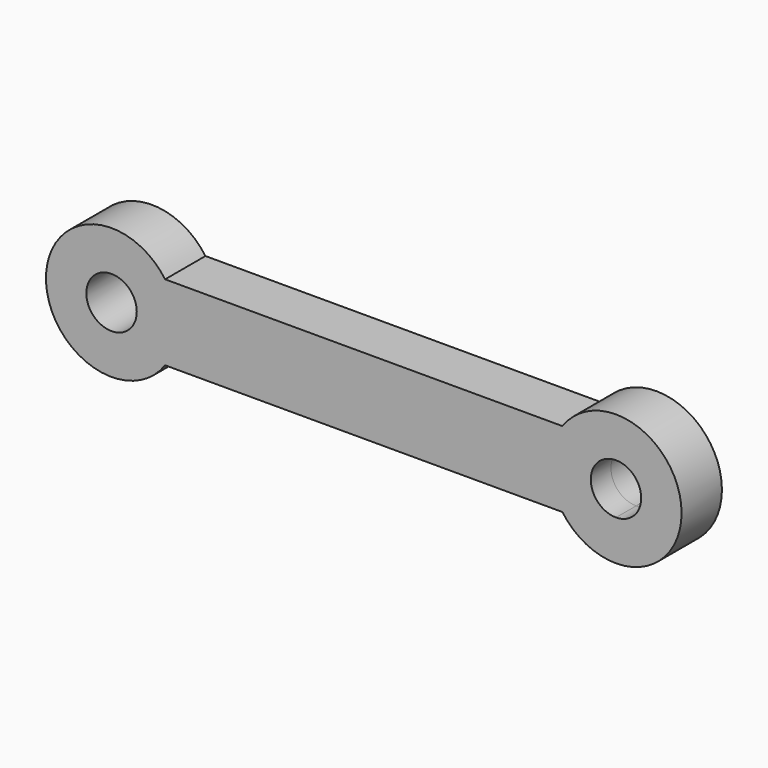
from build123d import *

# Parameters (mm, degrees)
F1_DEPTH = 6.35


with BuildPart() as f1:
    # F0 (on Front) → F1 (new body, symmetric)
    with BuildSketch(Plane.XZ):
        with BuildLine():
            Line((63.5, -6.35), (63.5, -9.525))
            Line((63.5, -9.525), (50.0146570307, -9.525))
            ThreePointArc((50.0146570307, -9.525), (68.4968533887, -15.7356778123), (80.01, 0))
            ThreePointArc((80.01, 0), (68.4968533887, 15.7356778123), (50.0146570307, 9.525))
            Line((50.0146570307, 9.525), (63.5, 9.525))
            Line((63.5, 9.525), (63.5, 6.35))
            ThreePointArc((63.5, 6.35), (67.9901280605, 4.4901280605), (69.85, 0))
            ThreePointArc((69.85, 0), (67.9901280605, -4.4901280605), (63.5, -6.35))
        make_face()
        with BuildLine():
            Line((50.0146570307, -9.525), (63.5, -9.525))
            Line((63.5, -9.525), (63.5, -6.35))
            ThreePointArc((63.5, -6.35), (57.15, 0), (63.5, 6.35))
            Line((63.5, 6.35), (63.5, 9.525))
            Line((63.5, 9.525), (50.0146570307, 9.525))
            ThreePointArc((50.0146570307, 9.525), (46.99, 0), (50.0146570307, -9.525))
        make_face()
        with BuildLine():
            Line((-50.0146570307, -9.525), (50.0146570307, -9.525))
            ThreePointArc((50.0146570307, -9.525), (46.99, 0), (50.0146570307, 9.525))
            Line((50.0146570307, 9.525), (-50.0146570307, 9.525))
            ThreePointArc((-50.0146570307, 9.525), (-47.7643221877, 4.9968533887), (-46.99, 0))
            ThreePointArc((-46.99, 0), (-47.7643221877, -4.9968533887), (-50.0146570307, -9.525))
        make_face()
        with BuildLine():
            ThreePointArc((-50.0146570307, 9.525), (-80.01, 0), (-50.0146570307, -9.525))
            Line((-50.0146570307, -9.525), (-63.5, -9.525))
            Line((-63.5, -9.525), (-63.5, -6.35))
            ThreePointArc((-63.5, -6.35), (-69.85, 0), (-63.5, 6.35))
            Line((-63.5, 6.35), (-63.5, 9.525))
            Line((-63.5, 9.525), (-50.0146570307, 9.525))
        make_face()
        with BuildLine():
            Line((-63.5, -9.525), (-50.0146570307, -9.525))
            ThreePointArc((-50.0146570307, -9.525), (-47.7643221877, -4.9968533887), (-46.99, 0))
            ThreePointArc((-46.99, 0), (-47.7643221877, 4.9968533887), (-50.0146570307, 9.525))
            Line((-50.0146570307, 9.525), (-63.5, 9.525))
            Line((-63.5, 9.525), (-63.5, 6.35))
            ThreePointArc((-63.5, 6.35), (-59.0098719395, 4.4901280605), (-57.15, 0))
            ThreePointArc((-57.15, 0), (-59.0098719395, -4.4901280605), (-63.5, -6.35))
            Line((-63.5, -6.35), (-63.5, -9.525))
        make_face()
    extrude(amount=F1_DEPTH, both=True)


solid = f1.part
